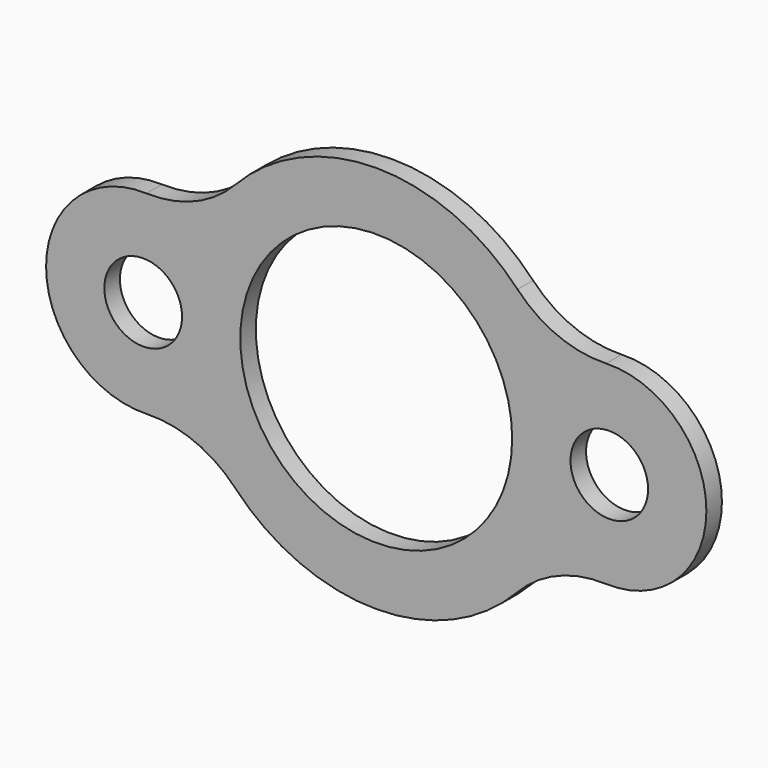
from build123d import *

# Parameters (mm, degrees)
F0_R     = 12.680698
F0_R_2   = 12.7
F0_R_3   = 44.45
F1_DEPTH = 6.35


with BuildPart() as f1:
    # F0 (on Front) → F1 (new body)
    with BuildSketch(Plane.XZ):
        with BuildLine():
            ThreePointArc((-46.136719, 43.630874), (-59.347524, 34.564632), (-75.117614, 31.731545))
            ThreePointArc((-75.117614, 31.731545), (-107.95, 0), (-75.117614, -31.731545))
            ThreePointArc((-75.117614, -31.731545), (-59.347524, -34.564632), (-46.136719, -43.630874))
            ThreePointArc((-46.136719, -43.630874), (-0.03884, -63.499988), (46.08331, -43.687281))
            ThreePointArc((46.08331, -43.687281), (59.305211, -34.6372), (75.078771, -31.823414))
            ThreePointArc((75.078771, -31.823414), (107.949976, -0.132058), (75.156407, 31.639627))
            ThreePointArc((75.156407, 31.639627), (59.389778, 34.491997), (46.19006, 43.5744))
            ThreePointArc((46.19006, 43.5744), (0.038842, 63.499988), (-46.136719, 43.630874))
        make_face()
        with Locations((76.2, -0.093218)):
            Circle(F0_R, mode=Mode.SUBTRACT)
        with Locations((-76.2, 0)):
            Circle(F0_R_2, mode=Mode.SUBTRACT)
        Circle(F0_R_3, mode=Mode.SUBTRACT)
    extrude(amount=F1_DEPTH)


solid = f1.part
